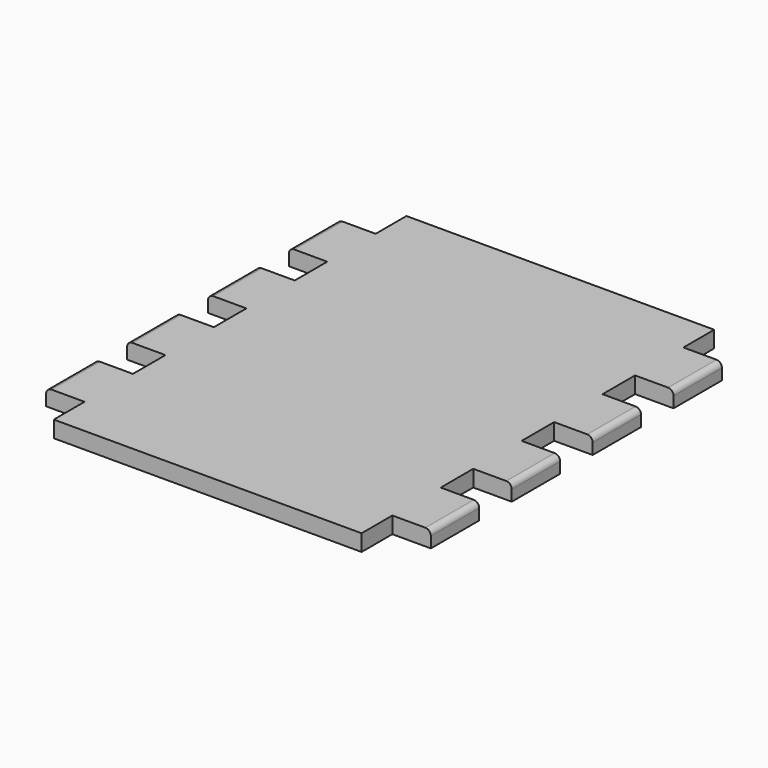
from build123d import *

# Parameters (mm, degrees)
F1_DEPTH = 15
F3_R     = 5


with BuildPart() as f1:
    # F0 (on Top) → F1 (new body)
    with BuildSketch(Plane.XY):
        Polygon((-140, 165.5), (-175, 165.5), (-175, 110.5), (-140, 110.5), (-140, 73.5), (-175, 73.5), (-175, 18.5), (-140, 18.5), (-140, 0), (0, 0), (0, 200.5), (-140, 200.5), align=None)
    extrude(amount=F1_DEPTH)

    # F2: F1 across plane


with BuildPart() as f1_1:
    add(f1.part)
    add(f1.part.mirror(Plane.XZ))

    # F3
    f3_edges = [f1_1.edges().sort_by_distance(p)[0] for p in [
        (-175, 138, 15),
        (-175, 46, 15),
        (-175, -46, 15),
        (-175, -138, 15),
    ]]
    fillet(f3_edges, radius=F3_R)

    # F4: F1 across face


with BuildPart() as f1_2:
    add(f1_1.part)
    add(f1_1.part.mirror(Plane(origin=(0, 0, 7.5), x_dir=(0, 1, 0), z_dir=(1, 0, 0))))


solid = f1_2.part
